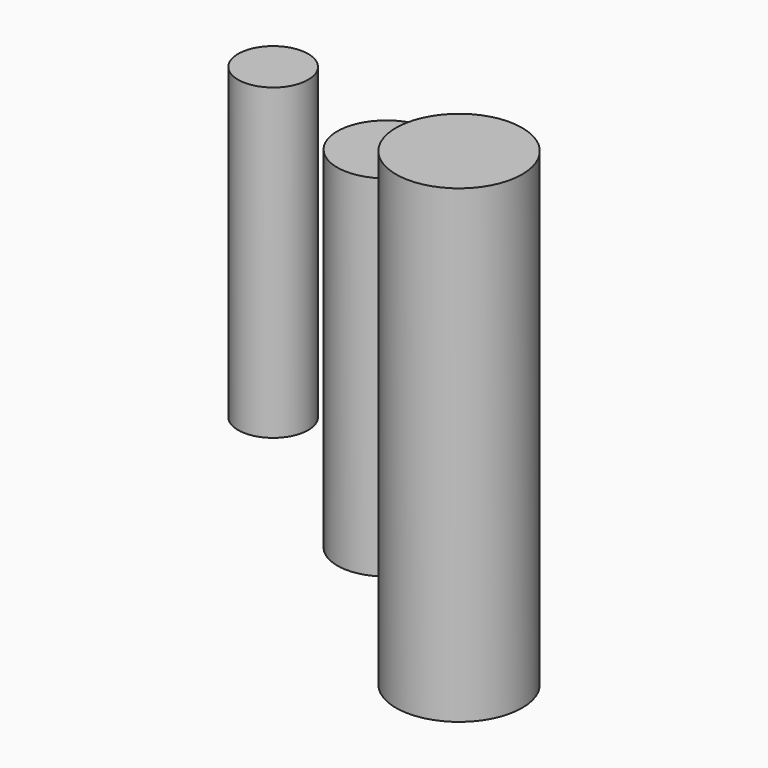
from build123d import *

# Parameters (mm, degrees)
F0_R     = 9
F1_DEPTH = 67
F2_R     = 7
F3_DEPTH = 50
F4_R     = 5
F5_DEPTH = 44


with BuildPart() as f1:
    # F0 (on Top) → F1 (new body)
    with BuildSketch(Plane.XY):
        Circle(F0_R)
    extrude(amount=F1_DEPTH)


with BuildPart() as f3:
    # F2 (on Top) → F3 (new body)
    with BuildSketch(Plane.XY):
        with Locations((-26.981844, 20.758759)):
            Circle(F2_R)
    extrude(amount=F3_DEPTH)


with BuildPart() as f5:
    # F4 (on Top) → F5 (new body)
    with BuildSketch(Plane.XY):
        with Locations((-56.471605, 37.436996)):
            Circle(F4_R)
    extrude(amount=F5_DEPTH)


solid = Compound([f1.part, f3.part, f5.part])
